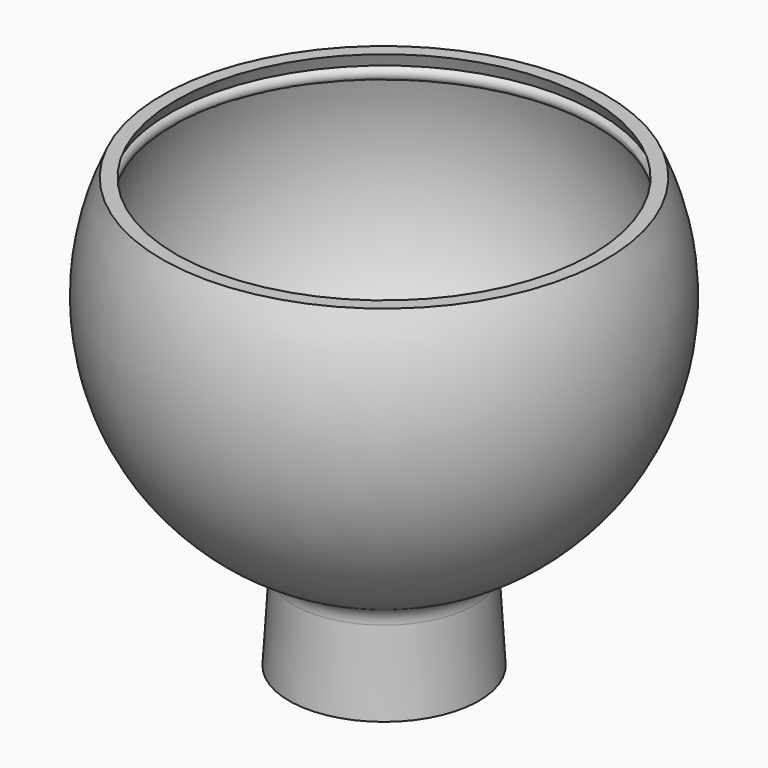
from build123d import *


with BuildPart() as f1:
    # F0 (on Right) → F1 (revolve)
    with BuildSketch(Plane.YZ):
        with BuildLine():
            ThreePointArc((16.493306, 26.148261), (17.030719, 28.335058), (18.709023, 29.836453))
            ThreePointArc((18.709023, 29.836453), (42.160265, 55.213333), (40.64, 89.733407))
            Line((40.64, 89.733407), (38.1, 89.733407))
            ThreePointArc((38.1, 89.733407), (38.672229, 88.545386), (39.207425, 87.340228))
            ThreePointArc((39.207425, 87.340228), (39.673854, 86.198988), (40.107071, 85.044731))
            ThreePointArc((40.107071, 85.044731), (38.946095, 53.358953), (16.222002, 31.246694))
            ThreePointArc((16.222002, 31.246694), (14.445638, 29.749384), (13.869069, 27.498834))
            Line((13.869069, 27.498834), (14.850653, 10.887415))
            Line((14.850653, 10.887415), (17.38623, 11.037244))
            Line((17.38623, 11.037244), (16.493306, 26.148261))
        make_face()
        with BuildLine():
            ThreePointArc((40.107071, 85.044731), (39.673854, 86.198988), (39.207425, 87.340228))
            ThreePointArc((39.207425, 87.340228), (38.525985, 85.749118), (40.107071, 85.044731))
        make_face()
    revolve(axis=Axis((0, 0, 44.866704), (0, 0, -1)))


solid = f1.part
